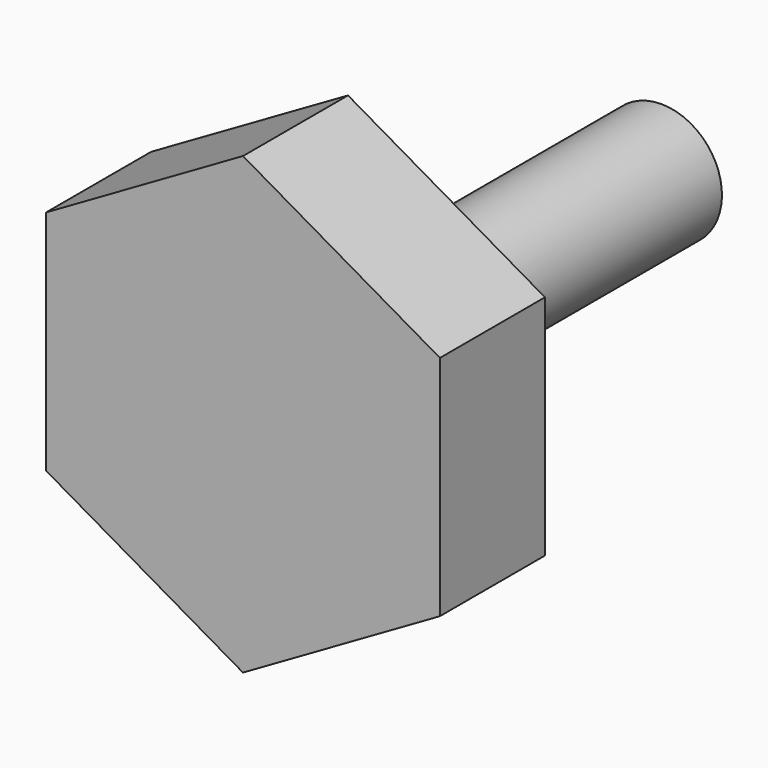
from build123d import *

# Parameters (mm, degrees)
F1_DEPTH = 8


with BuildPart() as f1:
    # F0 (on Front) → F1 (new body)
    with BuildSketch(Plane.XZ):
        Polygon((-12, 6.928203), (-12, -6.928203), (0, -13.856406), (12, -6.928203), (12, 6.928203), (0, 13.856406), align=None)
    extrude(amount=F1_DEPTH)

    # F2 (on Right) → F3 (revolve)
    with BuildSketch(Plane.YZ):
        Polygon((1.602202, 3.686891), (0, 3.686891), (0, 0), (23.874549, 0), (23.874549, 3.686891), align=None)
    revolve(axis=Axis((0, 11.937275, 0), (0, 1, 0)))


solid = f1.part
